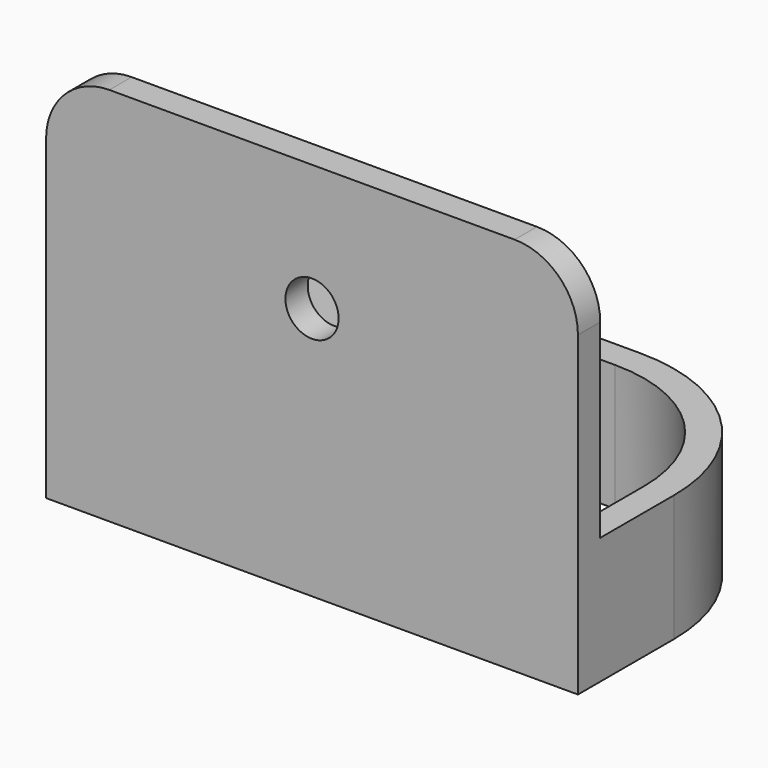
from build123d import *

# Parameters (mm, degrees)
F1_DEPTH = 10
F3_DEPTH = 25
F4_W     = 42
F4_H     = 2.2
F5_DEPTH = 20
F6_R     = 2.1
F7_DEPTH = 4
F8_R     = 5
F9_R     = 5


with BuildPart() as f1:
    # F0 (on Top) → F1 (new body)
    with BuildSketch(Plane.XY):
        with BuildLine():
            Line((51.723857, -41.288426), (36.723857, -41.288426))
            ThreePointArc((36.723857, -41.288426), (27.177916, -45.242484), (23.223857, -54.788426))
            Line((23.223857, -54.788426), (23.223857, -64.288426))
            Line((23.223857, -64.288426), (65.223857, -64.288426))
            Line((65.223857, -64.288426), (65.223857, -54.788426))
            ThreePointArc((65.223857, -54.788426), (61.269799, -45.242484), (51.723857, -41.288426))
        make_face()
    extrude(amount=F1_DEPTH)

    # F2 (on face) → F3 (cut)
    with BuildSketch(Plane.XY.offset(10)):
        with BuildLine():
            Line((51.523857, -43.488426), (36.723857, -43.488426))
            ThreePointArc((36.723857, -43.488426), (28.592129, -46.856698), (25.223857, -54.988426))
            Line((25.223857, -54.988426), (25.223857, -62.088426))
            Line((25.223857, -62.088426), (63.023857, -62.088426))
            Line((63.023857, -62.088426), (63.023857, -54.988426))
            ThreePointArc((63.023857, -54.988426), (59.655585, -46.856698), (51.523857, -43.488426))
        make_face()
    extrude(amount=-F3_DEPTH, mode=Mode.SUBTRACT)

    # F4 (on face) → F5 (join)
    with BuildSketch(Plane.XY.offset(10)):
        with Locations((44.223857, -63.188426)):
            Rectangle(F4_W, F4_H)
    extrude(amount=F5_DEPTH)

    # F6 (on face) → F7 (cut)
    with BuildSketch(Plane.XZ.offset(64.288426)):
        with Locations((44.223857, 20)):
            Circle(F6_R)
    extrude(amount=-F7_DEPTH, mode=Mode.SUBTRACT)

    # F8
    f8_edges = [f1.edges().sort_by_distance(p)[0] for p in [
        (65.223857, -63.188426, 30),
    ]]
    fillet(f8_edges, radius=F8_R)

    # F9
    f9_edges = [f1.edges().sort_by_distance(p)[0] for p in [
        (23.223857, -63.188426, 30),
    ]]
    fillet(f9_edges, radius=F9_R)


solid = f1.part
